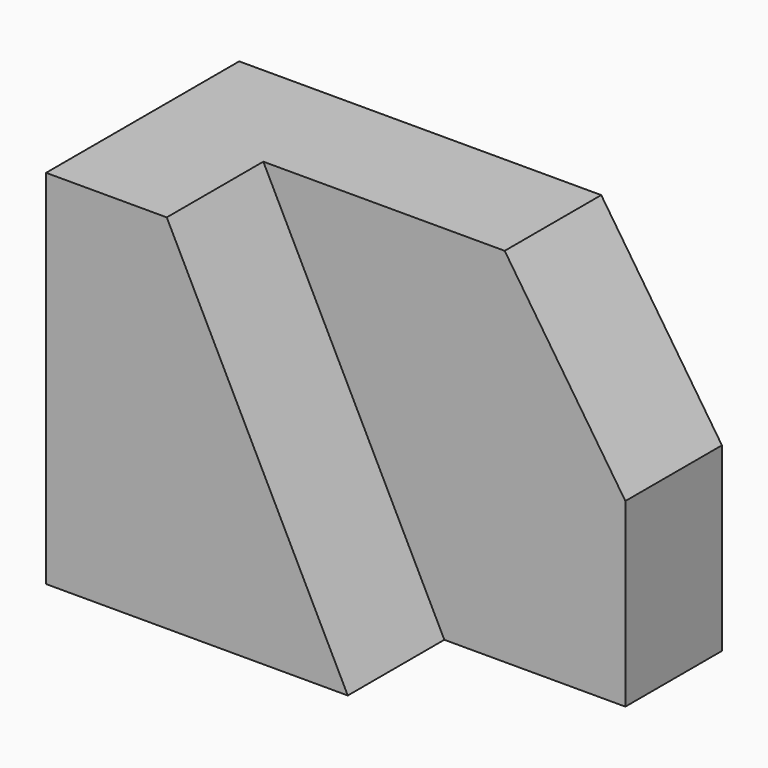
from build123d import *

# Parameters (mm, degrees)
F0_W     = 50.8
F0_H     = 38.1
F1_DEPTH = 25.4
F3_DEPTH = 12.7
F5_DEPTH = 25.4


with BuildPart() as f1:
    # F0 (on Front) → F1 (new body)
    with BuildSketch(Plane.XZ):
        with Locations((25.4, 19.05)):
            Rectangle(F0_W, F0_H)
    extrude(amount=F1_DEPTH)

    # F2 (on face) → F3 (cut)
    with BuildSketch(Plane.XZ.offset(25.4)):
        Polygon((50.8, 38.1), (12.7, 38.1), (31.75, 0), (50.8, 0), align=None)
    extrude(amount=-F3_DEPTH, mode=Mode.SUBTRACT)

    # F4 (on face) → F5 (cut)
    with BuildSketch(Plane(origin=(0, 0, 0), x_dir=(-1, 0, 0), z_dir=(0, 1, 0))):
        Polygon((-50.8, 19.05), (-38.1, 38.1), (-50.8, 38.1), align=None)
    extrude(amount=-F5_DEPTH, mode=Mode.SUBTRACT)


solid = f1.part
